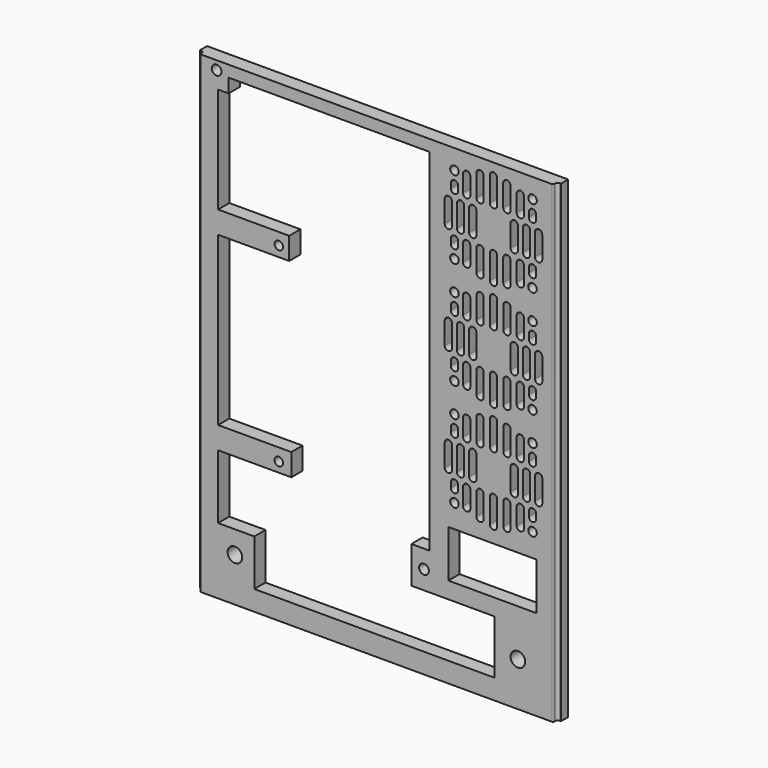
from build123d import *

# Parameters (mm, degrees)
SKETCH008_W     = 148
SKETCH008_H     = 8
PAD003_DEPTH    = 110
SKETCH009_R     = 2
SKETCH009_R_2   = 1.75
POCKET_DEPTH    = 10
SKETCH010_R     = 3
POCKET005_DEPTH = 10
SKETCH011_R     = 1.75
POCKET006_DEPTH = 10
POCKET007_DEPTH = 220
SKETCH_W        = 36.18027
SKETCH_H        = 19.352234
POCKET008_DEPTH = 20
SKETCH013_W     = 148.095543
SKETCH013_H     = 27.192727
POCKET009_DEPTH = 10


with BuildPart() as part:
    # Sketch008 → Pad003 (new body, symmetric)
    with BuildSketch(Plane.XY):
        with Locations((0, 4)):
            Rectangle(SKETCH008_W, SKETCH008_H)
    extrude(amount=PAD003_DEPTH, both=True)

    # Sketch009 (on Face1 of Pad003) → Pocket (cut)
    with BuildSketch(Plane(origin=(0, 8, 0), x_dir=(-1, 0, 0), z_dir=(0, 1, 0))):
        with Locations((-19.5, -72)):
            Circle(SKETCH009_R)
        with Locations((65.5, 80.5)):
            Circle(SKETCH009_R)
        with Locations((40, -52.5)):
            Circle(SKETCH009_R_2)
        with Locations((40, 25.5)):
            Circle(SKETCH009_R_2)
    extrude(amount=-POCKET_DEPTH, mode=Mode.SUBTRACT)

    # Sketch010 (on Face1 of Pocket) → Pocket005 (cut)
    with BuildSketch(Plane(origin=(0, 8, 0), x_dir=(-1, 0, 0), z_dir=(0, 1, 0))):
        with Locations((-60, 92)):
            Circle(SKETCH010_R)
        with Locations((60, 92)):
            Circle(SKETCH010_R)
        with Locations((-58, -92)):
            Circle(SKETCH010_R)
        with Locations((58, -92)):
            Circle(SKETCH010_R)
    extrude(amount=-POCKET005_DEPTH, mode=Mode.SUBTRACT)

    # Sketch011 (on Face1 of Pocket005) → Pocket006 (cut)
    with BuildSketch(Plane(origin=(0, 8, 0), x_dir=(-1, 0, 0), z_dir=(0, 1, 0))):
        with Locations((-64, 76)):
            Circle(SKETCH011_R)
        with Locations((-32, 76)):
            Circle(SKETCH011_R)
        with Locations((-32, 44)):
            Circle(SKETCH011_R)
        with Locations((-64, 44)):
            Circle(SKETCH011_R)
        with Locations((-64.00351, 32)):
            Circle(SKETCH011_R)
        with Locations((-32.00351, 32)):
            Circle(SKETCH011_R)
        with Locations((-32.00351, 0)):
            Circle(SKETCH011_R)
        with Locations((-64.00351, 0)):
            Circle(SKETCH011_R)
        with Locations((-64.00702, -12)):
            Circle(SKETCH011_R)
        with Locations((-32.00702, -12)):
            Circle(SKETCH011_R)
        with Locations((-32.00702, -44)):
            Circle(SKETCH011_R)
        with Locations((-64.00702, -44)):
            Circle(SKETCH011_R)
        with BuildLine():
            ThreePointArc((-65, 64.5), (-66.5, 66), (-68, 64.5))
            Line((-68, 64.5), (-68, 55.5))
            ThreePointArc((-68, 55.5), (-66.5, 54), (-65, 55.5))
            Line((-65, 64.5), (-65, 55.5))
        make_face()
        with BuildLine():
            ThreePointArc((-60, 64.5), (-61.5, 66), (-63, 64.5))
            Line((-63, 64.5), (-63, 55.5))
            ThreePointArc((-63, 55.5), (-61.5, 54), (-60, 55.5))
            Line((-60, 64.5), (-60, 55.5))
        make_face()
        with BuildLine():
            ThreePointArc((-55, 64.5), (-56.5, 66), (-58, 64.5))
            Line((-58, 64.5), (-58, 55.5))
            ThreePointArc((-58, 55.5), (-56.5, 54), (-55, 55.5))
            Line((-55, 64.5), (-55, 55.5))
        make_face()
        with BuildLine():
            ThreePointArc((-38, 64.5), (-39.5, 66), (-41, 64.5))
            Line((-41, 64.5), (-41, 55.5))
            ThreePointArc((-41, 55.5), (-39.5, 54), (-38, 55.5))
            Line((-38, 64.5), (-38, 55.5))
        make_face()
        with BuildLine():
            ThreePointArc((-33, 64.5), (-34.5, 66), (-36, 64.5))
            Line((-36, 64.5), (-36, 55.5))
            ThreePointArc((-36, 55.5), (-34.5, 54), (-33, 55.5))
            Line((-33, 64.5), (-33, 55.5))
        make_face()
        with BuildLine():
            ThreePointArc((-28, 64.5), (-29.5, 66), (-31, 64.5))
            Line((-31, 64.5), (-31, 55.5))
            ThreePointArc((-31, 55.5), (-29.5, 54), (-28, 55.5))
            Line((-28, 64.5), (-28, 55.5))
        make_face()
        with BuildLine():
            ThreePointArc((-62.5, 51), (-64, 52.5), (-65.5, 51))
            Line((-65.5, 51), (-65.5, 49))
            ThreePointArc((-65.5, 49), (-64, 47.5), (-62.5, 49))
            Line((-62.5, 51), (-62.5, 49))
        make_face()
        with BuildLine():
            ThreePointArc((-57.5, 51), (-59, 52.5), (-60.5, 51))
            Line((-60.5, 51), (-60.5, 44))
            ThreePointArc((-60.5, 44), (-59, 42.5), (-57.5, 44))
            Line((-57.5, 51), (-57.5, 44))
        make_face()
        with BuildLine():
            ThreePointArc((-52, 51), (-53.5, 52.5), (-55, 51))
            Line((-55, 51), (-55, 42))
            ThreePointArc((-55, 42), (-53.5, 40.5), (-52, 42))
            Line((-52, 51), (-52, 42))
        make_face()
        with BuildLine():
            ThreePointArc((-46.5, 51), (-48, 52.5), (-49.5, 51))
            Line((-49.5, 51), (-49.5, 41))
            ThreePointArc((-49.5, 41), (-48, 39.5), (-46.5, 41))
            Line((-46.5, 51), (-46.5, 41))
        make_face()
        with BuildLine():
            ThreePointArc((-41, 51), (-42.5, 52.5), (-44, 51))
            Line((-44, 51), (-44, 42))
            ThreePointArc((-44, 42), (-42.5, 40.5), (-41, 42))
            Line((-41, 51), (-41, 42))
        make_face()
        with BuildLine():
            ThreePointArc((-35.5, 51), (-37, 52.5), (-38.5, 51))
            Line((-38.5, 51), (-38.5, 44))
            ThreePointArc((-38.5, 44), (-37, 42.5), (-35.5, 44))
            Line((-35.5, 51), (-35.5, 44))
        make_face()
        with BuildLine():
            ThreePointArc((-30.5, 51), (-32, 52.5), (-33.5, 51))
            Line((-33.5, 51), (-33.5, 49))
            ThreePointArc((-33.5, 49), (-32, 47.5), (-30.5, 49))
            Line((-30.5, 51), (-30.5, 49))
        make_face()
        with BuildLine():
            ThreePointArc((-30.5, 71), (-32, 72.5), (-33.5, 71))
            Line((-33.5, 71), (-33.5, 69))
            ThreePointArc((-33.5, 69), (-32, 67.5), (-30.5, 69))
            Line((-30.5, 71), (-30.5, 69))
        make_face()
        with BuildLine():
            ThreePointArc((-35.5, 76), (-37, 77.5), (-38.5, 76))
            Line((-38.5, 76), (-38.5, 69))
            ThreePointArc((-38.5, 69), (-37, 67.5), (-35.5, 69))
            Line((-35.5, 76), (-35.5, 69))
        make_face()
        with BuildLine():
            ThreePointArc((-41, 78), (-42.5, 79.5), (-44, 78))
            Line((-44, 78), (-44, 69))
            ThreePointArc((-44, 69), (-42.5, 67.5), (-41, 69))
            Line((-41, 78), (-41, 69))
        make_face()
        with BuildLine():
            ThreePointArc((-46.5, 79), (-48, 80.5), (-49.5, 79))
            Line((-49.5, 79), (-49.5, 69))
            ThreePointArc((-49.5, 69), (-48, 67.5), (-46.5, 69))
            Line((-46.5, 79), (-46.5, 69))
        make_face()
        with BuildLine():
            ThreePointArc((-52, 78), (-53.5, 79.5), (-55, 78))
            Line((-55, 78), (-55, 69))
            ThreePointArc((-55, 69), (-53.5, 67.5), (-52, 69))
            Line((-52, 78), (-52, 69))
        make_face()
        with BuildLine():
            ThreePointArc((-57.5, 76), (-59, 77.5), (-60.5, 76))
            Line((-60.5, 76), (-60.5, 69))
            ThreePointArc((-60.5, 69), (-59, 67.5), (-57.5, 69))
            Line((-57.5, 76), (-57.5, 69))
        make_face()
        with BuildLine():
            ThreePointArc((-62.5, 71), (-64, 72.5), (-65.5, 71))
            Line((-65.5, 69), (-65.5, 71))
            ThreePointArc((-65.5, 69), (-64, 67.5), (-62.5, 69))
            Line((-62.5, 71), (-62.5, 69))
        make_face()
        with BuildLine():
            ThreePointArc((-65.00351, 20.5), (-66.50351, 22), (-68.00351, 20.5))
            Line((-68.00351, 20.5), (-68.00351, 11.5))
            ThreePointArc((-68.00351, 11.5), (-66.50351, 10), (-65.00351, 11.5))
            Line((-65.00351, 20.5), (-65.00351, 11.5))
        make_face()
        with BuildLine():
            ThreePointArc((-60.00351, 20.5), (-61.50351, 22), (-63.00351, 20.5))
            Line((-63.00351, 20.5), (-63.00351, 11.5))
            ThreePointArc((-63.00351, 11.5), (-61.50351, 10), (-60.00351, 11.5))
            Line((-60.00351, 20.5), (-60.00351, 11.5))
        make_face()
        with BuildLine():
            ThreePointArc((-55.00351, 20.5), (-56.50351, 22), (-58.00351, 20.5))
            Line((-58.00351, 20.5), (-58.00351, 11.5))
            ThreePointArc((-58.00351, 11.5), (-56.50351, 10), (-55.00351, 11.5))
            Line((-55.00351, 20.5), (-55.00351, 11.5))
        make_face()
        with BuildLine():
            ThreePointArc((-38.00351, 20.5), (-39.50351, 22), (-41.00351, 20.5))
            Line((-41.00351, 20.5), (-41.00351, 11.5))
            ThreePointArc((-41.00351, 11.5), (-39.50351, 10), (-38.00351, 11.5))
            Line((-38.00351, 20.5), (-38.00351, 11.5))
        make_face()
        with BuildLine():
            ThreePointArc((-33.00351, 20.5), (-34.50351, 22), (-36.00351, 20.5))
            Line((-36.00351, 20.5), (-36.00351, 11.5))
            ThreePointArc((-36.00351, 11.5), (-34.50351, 10), (-33.00351, 11.5))
            Line((-33.00351, 20.5), (-33.00351, 11.5))
        make_face()
        with BuildLine():
            ThreePointArc((-28.00351, 20.5), (-29.50351, 22), (-31.00351, 20.5))
            Line((-31.00351, 20.5), (-31.00351, 11.5))
            ThreePointArc((-31.00351, 11.5), (-29.50351, 10), (-28.00351, 11.5))
            Line((-28.00351, 20.5), (-28.00351, 11.5))
        make_face()
        with BuildLine():
            ThreePointArc((-62.50351, 7), (-64.00351, 8.5), (-65.50351, 7))
            Line((-65.50351, 7), (-65.50351, 5))
            ThreePointArc((-65.50351, 5), (-64.00351, 3.5), (-62.50351, 5))
            Line((-62.50351, 7), (-62.50351, 5))
        make_face()
        with BuildLine():
            ThreePointArc((-57.50351, 7), (-59.00351, 8.5), (-60.50351, 7))
            Line((-60.50351, 7), (-60.50351, 0))
            ThreePointArc((-60.50351, 0), (-59.00351, -1.5), (-57.50351, 0))
            Line((-57.50351, 7), (-57.50351, 0))
        make_face()
        with BuildLine():
            ThreePointArc((-52.00351, 7), (-53.50351, 8.5), (-55.00351, 7))
            Line((-55.00351, 7), (-55.00351, -2))
            ThreePointArc((-55.00351, -2), (-53.50351, -3.5), (-52.00351, -2))
            Line((-52.00351, 7), (-52.00351, -2))
        make_face()
        with BuildLine():
            ThreePointArc((-46.50351, 7), (-48.00351, 8.5), (-49.50351, 7))
            Line((-49.50351, 7), (-49.50351, -3))
            ThreePointArc((-49.50351, -3), (-48.00351, -4.5), (-46.50351, -3))
            Line((-46.50351, 7), (-46.50351, -3))
        make_face()
        with BuildLine():
            ThreePointArc((-41.00351, 7), (-42.50351, 8.5), (-44.00351, 7))
            Line((-44.00351, 7), (-44.00351, -2))
            ThreePointArc((-44.00351, -2), (-42.50351, -3.5), (-41.00351, -2))
            Line((-41.00351, 7), (-41.00351, -2))
        make_face()
        with BuildLine():
            ThreePointArc((-35.50351, 7), (-37.00351, 8.5), (-38.50351, 7))
            Line((-38.50351, 7), (-38.50351, 0))
            ThreePointArc((-38.50351, 0), (-37.00351, -1.5), (-35.50351, 0))
            Line((-35.50351, 7), (-35.50351, 0))
        make_face()
        with BuildLine():
            ThreePointArc((-30.50351, 7), (-32.00351, 8.5), (-33.50351, 7))
            Line((-33.50351, 7), (-33.50351, 5))
            ThreePointArc((-33.50351, 5), (-32.00351, 3.5), (-30.50351, 5))
            Line((-30.50351, 7), (-30.50351, 5))
        make_face()
        with BuildLine():
            ThreePointArc((-30.50351, 27), (-32.00351, 28.5), (-33.50351, 27))
            Line((-33.50351, 27), (-33.50351, 25))
            ThreePointArc((-33.50351, 25), (-32.00351, 23.5), (-30.50351, 25))
            Line((-30.50351, 27), (-30.50351, 25))
        make_face()
        with BuildLine():
            ThreePointArc((-35.50351, 32), (-37.00351, 33.5), (-38.50351, 32))
            Line((-38.50351, 32), (-38.50351, 25))
            ThreePointArc((-38.50351, 25), (-37.00351, 23.5), (-35.50351, 25))
            Line((-35.50351, 32), (-35.50351, 25))
        make_face()
        with BuildLine():
            ThreePointArc((-41.00351, 34), (-42.50351, 35.5), (-44.00351, 34))
            Line((-44.00351, 34), (-44.00351, 25))
            ThreePointArc((-44.00351, 25), (-42.50351, 23.5), (-41.00351, 25))
            Line((-41.00351, 34), (-41.00351, 25))
        make_face()
        with BuildLine():
            ThreePointArc((-46.50351, 35), (-48.00351, 36.5), (-49.50351, 35))
            Line((-49.50351, 35), (-49.50351, 25))
            ThreePointArc((-49.50351, 25), (-48.00351, 23.5), (-46.50351, 25))
            Line((-46.50351, 35), (-46.50351, 25))
        make_face()
        with BuildLine():
            ThreePointArc((-52.00351, 34), (-53.50351, 35.5), (-55.00351, 34))
            Line((-55.00351, 34), (-55.00351, 25))
            ThreePointArc((-55.00351, 25), (-53.50351, 23.5), (-52.00351, 25))
            Line((-52.00351, 34), (-52.00351, 25))
        make_face()
        with BuildLine():
            ThreePointArc((-57.50351, 32), (-59.00351, 33.5), (-60.50351, 32))
            Line((-60.50351, 32), (-60.50351, 25))
            ThreePointArc((-60.50351, 25), (-59.00351, 23.5), (-57.50351, 25))
            Line((-57.50351, 32), (-57.50351, 25))
        make_face()
        with BuildLine():
            ThreePointArc((-62.50351, 27), (-64.00351, 28.5), (-65.50351, 27))
            Line((-65.50351, 25), (-65.50351, 27))
            ThreePointArc((-65.50351, 25), (-64.00351, 23.5), (-62.50351, 25))
            Line((-62.50351, 27), (-62.50351, 25))
        make_face()
        with BuildLine():
            ThreePointArc((-65.00702, -23.5), (-66.50702, -22), (-68.00702, -23.5))
            Line((-68.00702, -23.5), (-68.00702, -32.5))
            ThreePointArc((-68.00702, -32.5), (-66.50702, -34), (-65.00702, -32.5))
            Line((-65.00702, -23.5), (-65.00702, -32.5))
        make_face()
        with BuildLine():
            ThreePointArc((-60.00702, -23.5), (-61.50702, -22), (-63.00702, -23.5))
            Line((-63.00702, -23.5), (-63.00702, -32.5))
            ThreePointArc((-63.00702, -32.5), (-61.50702, -34), (-60.00702, -32.5))
            Line((-60.00702, -23.5), (-60.00702, -32.5))
        make_face()
        with BuildLine():
            ThreePointArc((-55.00702, -23.5), (-56.50702, -22), (-58.00702, -23.5))
            Line((-58.00702, -23.5), (-58.00702, -32.5))
            ThreePointArc((-58.00702, -32.5), (-56.50702, -34), (-55.00702, -32.5))
            Line((-55.00702, -23.5), (-55.00702, -32.5))
        make_face()
        with BuildLine():
            ThreePointArc((-38.00702, -23.5), (-39.50702, -22), (-41.00702, -23.5))
            Line((-41.00702, -23.5), (-41.00702, -32.5))
            ThreePointArc((-41.00702, -32.5), (-39.50702, -34), (-38.00702, -32.5))
            Line((-38.00702, -23.5), (-38.00702, -32.5))
        make_face()
        with BuildLine():
            ThreePointArc((-33.00702, -23.5), (-34.50702, -22), (-36.00702, -23.5))
            Line((-36.00702, -23.5), (-36.00702, -32.5))
            ThreePointArc((-36.00702, -32.5), (-34.50702, -34), (-33.00702, -32.5))
            Line((-33.00702, -23.5), (-33.00702, -32.5))
        make_face()
        with BuildLine():
            ThreePointArc((-28.00702, -23.5), (-29.50702, -22), (-31.00702, -23.5))
            Line((-31.00702, -23.5), (-31.00702, -32.5))
            ThreePointArc((-31.00702, -32.5), (-29.50702, -34), (-28.00702, -32.5))
            Line((-28.00702, -23.5), (-28.00702, -32.5))
        make_face()
        with BuildLine():
            ThreePointArc((-62.50702, -37), (-64.00702, -35.5), (-65.50702, -37))
            Line((-65.50702, -37), (-65.50702, -39))
            ThreePointArc((-65.50702, -39), (-64.00702, -40.5), (-62.50702, -39))
            Line((-62.50702, -37), (-62.50702, -39))
        make_face()
        with BuildLine():
            ThreePointArc((-57.50702, -37), (-59.00702, -35.5), (-60.50702, -37))
            Line((-60.50702, -37), (-60.50702, -44))
            ThreePointArc((-60.50702, -44), (-59.00702, -45.5), (-57.50702, -44))
            Line((-57.50702, -37), (-57.50702, -44))
        make_face()
        with BuildLine():
            ThreePointArc((-52.00702, -37), (-53.50702, -35.5), (-55.00702, -37))
            Line((-55.00702, -37), (-55.00702, -46))
            ThreePointArc((-55.00702, -46), (-53.50702, -47.5), (-52.00702, -46))
            Line((-52.00702, -37), (-52.00702, -46))
        make_face()
        with BuildLine():
            ThreePointArc((-46.50702, -37), (-48.00702, -35.5), (-49.50702, -37))
            Line((-49.50702, -37), (-49.50702, -47))
            ThreePointArc((-49.50702, -47), (-48.00702, -48.5), (-46.50702, -47))
            Line((-46.50702, -37), (-46.50702, -47))
        make_face()
        with BuildLine():
            ThreePointArc((-41.00702, -37), (-42.50702, -35.5), (-44.00702, -37))
            Line((-44.00702, -37), (-44.00702, -46))
            ThreePointArc((-44.00702, -46), (-42.50702, -47.5), (-41.00702, -46))
            Line((-41.00702, -37), (-41.00702, -46))
        make_face()
        with BuildLine():
            ThreePointArc((-35.50702, -37), (-37.00702, -35.5), (-38.50702, -37))
            Line((-38.50702, -37), (-38.50702, -44))
            ThreePointArc((-38.50702, -44), (-37.00702, -45.5), (-35.50702, -44))
            Line((-35.50702, -37), (-35.50702, -44))
        make_face()
        with BuildLine():
            ThreePointArc((-30.50702, -37), (-32.00702, -35.5), (-33.50702, -37))
            Line((-33.50702, -37), (-33.50702, -39))
            ThreePointArc((-33.50702, -39), (-32.00702, -40.5), (-30.50702, -39))
            Line((-30.50702, -37), (-30.50702, -39))
        make_face()
        with BuildLine():
            ThreePointArc((-30.50702, -17), (-32.00702, -15.5), (-33.50702, -17))
            Line((-33.50702, -17), (-33.50702, -19))
            ThreePointArc((-33.50702, -19), (-32.00702, -20.5), (-30.50702, -19))
            Line((-30.50702, -17), (-30.50702, -19))
        make_face()
        with BuildLine():
            ThreePointArc((-35.50702, -12), (-37.00702, -10.5), (-38.50702, -12))
            Line((-38.50702, -12), (-38.50702, -19))
            ThreePointArc((-38.50702, -19), (-37.00702, -20.5), (-35.50702, -19))
            Line((-35.50702, -12), (-35.50702, -19))
        make_face()
        with BuildLine():
            ThreePointArc((-41.00702, -10), (-42.50702, -8.5), (-44.00702, -10))
            Line((-44.00702, -10), (-44.00702, -19))
            ThreePointArc((-44.00702, -19), (-42.50702, -20.5), (-41.00702, -19))
            Line((-41.00702, -10), (-41.00702, -19))
        make_face()
        with BuildLine():
            ThreePointArc((-46.50702, -9), (-48.00702, -7.5), (-49.50702, -9))
            Line((-49.50702, -9), (-49.50702, -19))
            ThreePointArc((-49.50702, -19), (-48.00702, -20.5), (-46.50702, -19))
            Line((-46.50702, -9), (-46.50702, -19))
        make_face()
        with BuildLine():
            ThreePointArc((-52.00702, -10), (-53.50702, -8.5), (-55.00702, -10))
            Line((-55.00702, -10), (-55.00702, -19))
            ThreePointArc((-55.00702, -19), (-53.50702, -20.5), (-52.00702, -19))
            Line((-52.00702, -10), (-52.00702, -19))
        make_face()
        with BuildLine():
            ThreePointArc((-57.50702, -12), (-59.00702, -10.5), (-60.50702, -12))
            Line((-60.50702, -12), (-60.50702, -19))
            ThreePointArc((-60.50702, -19), (-59.00702, -20.5), (-57.50702, -19))
            Line((-57.50702, -12), (-57.50702, -19))
        make_face()
        with BuildLine():
            ThreePointArc((-62.50702, -17), (-64.00702, -15.5), (-65.50702, -17))
            Line((-65.50702, -19), (-65.50702, -17))
            ThreePointArc((-65.50702, -19), (-64.00702, -20.5), (-62.50702, -19))
            Line((-62.50702, -17), (-62.50702, -19))
        make_face()
    extrude(amount=-POCKET006_DEPTH, mode=Mode.SUBTRACT)

    # Sketch012 (on Face3 of Pocket006) → Pocket007 (cut)
    with BuildSketch(Plane.XY.offset(-110)):
        with BuildLine():
            Line((-72.340626, 3.292676), (-72.340626, 2.75))
            ThreePointArc((-72.340626, 2.75), (-72.194179, 2.396447), (-71.840626, 2.25))
            Line((-71.840626, 2.25), (71.960626, 2.25))
            ThreePointArc((71.960626, 2.25), (72.314179, 2.396447), (72.460626, 2.75))
            Line((72.460626, 2.75), (72.460626, 3.292676))
            ThreePointArc((73.460626, 4.292676), (72.753519, 3.999783), (72.460626, 3.292676))
            Line((73.460626, 4.292676), (75.76208, 4.292676))
            ThreePointArc((76.26208, 3.792676), (76.115633, 4.14623), (75.76208, 4.292676))
            Line((76.26208, 3.792676), (76.26208, 3.150519))
            ThreePointArc((75.76208, 2.650519), (76.115633, 2.796966), (76.26208, 3.150519))
            Line((75.76208, 2.650519), (75.747806, 2.658575))
            ThreePointArc((75.747806, 2.658575), (74.992907, 2.768681), (74.835507, 2.022208))
            Line((74.835507, 2.022208), (74.898438, 1.057924))
            ThreePointArc((74.898438, 1.057924), (74.575286, 0.550303), (74.473299, -0.042745))
            Line((74.473299, -0.042745), (-74, 0))
            ThreePointArc((-74, 0), (-74.085012, 0.07294), (-74.197027, 0.073162))
            Line((-74.197027, 0.073162), (-74.335754, 2))
            ThreePointArc((-74.335754, 2), (-74.499012, 2.38307), (-74.911683, 2.438731))
            Line((-74.911683, 2.438731), (-75.64208, 2.650519))
            ThreePointArc((-76.14208, 3.150519), (-75.995633, 2.796966), (-75.64208, 2.650519))
            Line((-76.14208, 3.150519), (-76.14208, 3.792676))
            ThreePointArc((-75.64208, 4.292676), (-75.995633, 4.14623), (-76.14208, 3.792676))
            Line((-75.64208, 4.292676), (-73.340626, 4.292676))
            ThreePointArc((-72.340626, 3.292676), (-72.633519, 3.999783), (-73.340626, 4.292676))
        make_face()
    extrude(amount=POCKET007_DEPTH, mode=Mode.SUBTRACT)

    # Sketch → Pocket008 (cut)
    with BuildSketch(Plane.XZ):
        Polygon((-60.598359, 79.352427), (21.81114, 79.352427), (21.81114, 30.366284), (21.81114, 21.155991), (21.81114, -64.576679), (14.342406, -64.576679), (14.342406, -79.634902), (48.347883, -79.634902), (48.347883, -101.772633), (-50.05871, -101.772633), (-50.05871, -82.794312), (-64.892231, -82.794312), (-64.892231, -56.520487), (-49.242753, -56.520487), (-34.874341, -56.520487), (-34.874341, -47.409642), (-64.892231, -47.409642), (-64.892231, 21.261164), (-35.73675, 21.261164), (-35.73675, 30.366284), (-64.892231, 30.366284), (-64.892231, 73.648032), (-60.598359, 73.648032), align=None)
        with Locations((47.591323, -63.181525)):
            Rectangle(SKETCH_W, SKETCH_H)
    extrude(amount=-POCKET008_DEPTH, mode=Mode.SUBTRACT)

    # Sketch013 (on Face1 of Pocket008) → Pocket009 (cut)
    with BuildSketch(Plane(origin=(0, 8, 0), x_dir=(-1, 0, 0), z_dir=(0, 1, 0))):
        with Locations((0.016789, 97.642796)):
            Rectangle(SKETCH013_W, SKETCH013_H)
    extrude(amount=-POCKET009_DEPTH, mode=Mode.SUBTRACT)


solid = part.part
